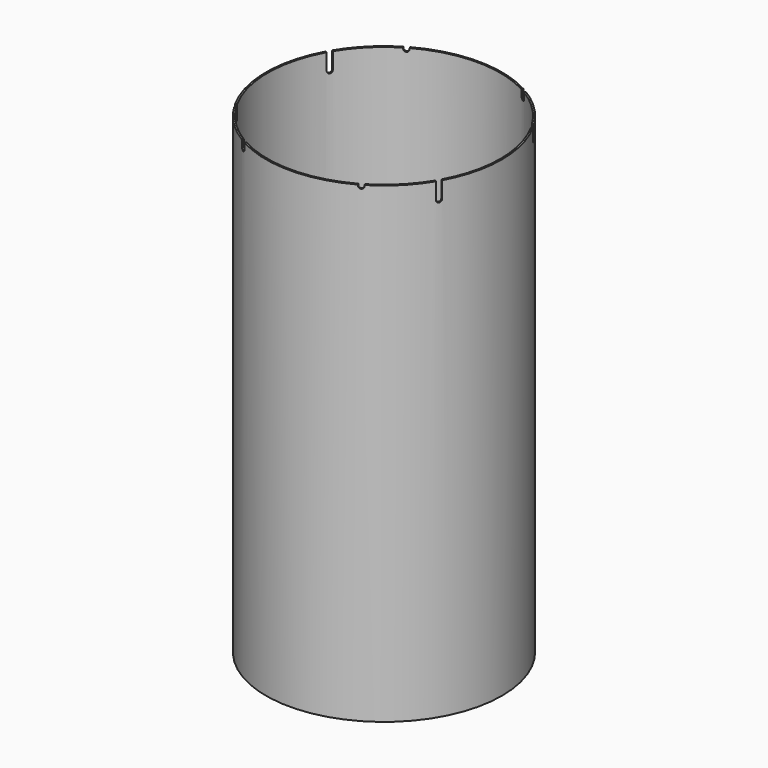
from build123d import *

# Parameters (mm, degrees)
F0_R      = 57.15
F1_DEPTH  = 228.6
F2_T      = -0.8
F16_R     = 1
F17_DEPTH = 0.8


with BuildPart() as f1:
    # F0 (on Top) → F1 (new body)
    with BuildSketch(Plane.XY):
        Circle(F0_R)
    extrude(amount=F1_DEPTH)

    # F2
    f2_openings = [f1.faces().sort_by_distance(p)[0] for p in [
        (0, 0, 228.6),
    ]]
    offset(amount=F2_T, openings=f2_openings)

    # F9: sweep along a path in F3
    with BuildLine(Plane.XY.offset(228.6)) as f9_path:
        Line((-28.575, 49.493352), (28.575, -49.493352))
    # F8 (on face) → F9 (sweep, cut)
    with BuildSketch(Plane(origin=(28.575, -49.493352, 0), x_dir=(0.866025, 0.5, 0), z_dir=(0.5, -0.866025, 0))):
        with BuildLine():
            Line((1.25, 228.6), (-1.25, 228.6))
            Line((-1.25, 228.6), (-1.25, 228.1))
            ThreePointArc((-1.25, 228.1), (0, 226.85), (1.25, 228.1))
            Line((1.25, 228.1), (1.25, 228.6))
        make_face()
    sweep(path=f9_path.line, mode=Mode.SUBTRACT)

    # F11: sweep along a path in F3
    with BuildLine(Plane.XY.offset(228.6)) as f11_path:
        Line((28.575, 49.493352), (-28.575, -49.493352))
    # F10 (on face) → F11 (sweep, cut)
    with BuildSketch(Plane(origin=(-28.575, -49.493352, 0), x_dir=(0.866025, -0.5, 0), z_dir=(-0.5, -0.866025, 0))):
        with BuildLine():
            Line((1.25, 228.6), (-1.25, 228.6))
            Line((-1.25, 228.6), (-1.25, 225.6))
            ThreePointArc((-1.25, 225.6), (0, 224.35), (1.25, 225.6))
            Line((1.25, 225.6), (1.25, 228.6))
        make_face()
    sweep(path=f11_path.line, mode=Mode.SUBTRACT)

    # F13: sweep along a path in F3
    with BuildLine(Plane.XY.offset(228.6)) as f13_path:
        Line((-49.493352, -28.575), (49.493352, 28.575))
    # F12 (on face) → F13 (sweep, cut)
    with BuildSketch(Plane(origin=(-49.493352, -28.575, 0), x_dir=(-0.5, 0.866025, 0), z_dir=(0.866025, 0.5, 0))):
        with BuildLine():
            Line((1.25, 228.6), (-1.25, 228.6))
            Line((-1.25, 228.6), (-1.25, 223.1))
            ThreePointArc((-1.25, 223.1), (0, 221.85), (1.25, 223.1))
            Line((1.25, 223.1), (1.25, 228.6))
        make_face()
    sweep(path=f13_path.line, mode=Mode.SUBTRACT)

    # F15: sweep along a path in F3
    with BuildLine(Plane.XY.offset(228.6)) as f15_path:
        Line((-49.493352, 28.575), (49.493352, -28.575))
    # F14 (on face) → F15 (sweep, cut)
    with BuildSketch(Plane(origin=(-49.493352, 28.575, 0), x_dir=(0.5, 0.866025, 0), z_dir=(0.866025, -0.5, 0))):
        with BuildLine():
            Line((1.25, 228.6), (-1.25, 228.6))
            Line((-1.25, 228.6), (-1.25, 220.6))
            ThreePointArc((-1.25, 220.6), (0, 219.35), (1.25, 220.6))
            Line((1.25, 220.6), (1.25, 228.6))
        make_face()
    sweep(path=f15_path.line, mode=Mode.SUBTRACT)

    # F16 (on face) → F17 (cut, through all)
    with BuildSketch(Plane.XY.offset(0.8)):
        Circle(F16_R)
    extrude(amount=-F17_DEPTH, mode=Mode.SUBTRACT)


solid = f1.part
